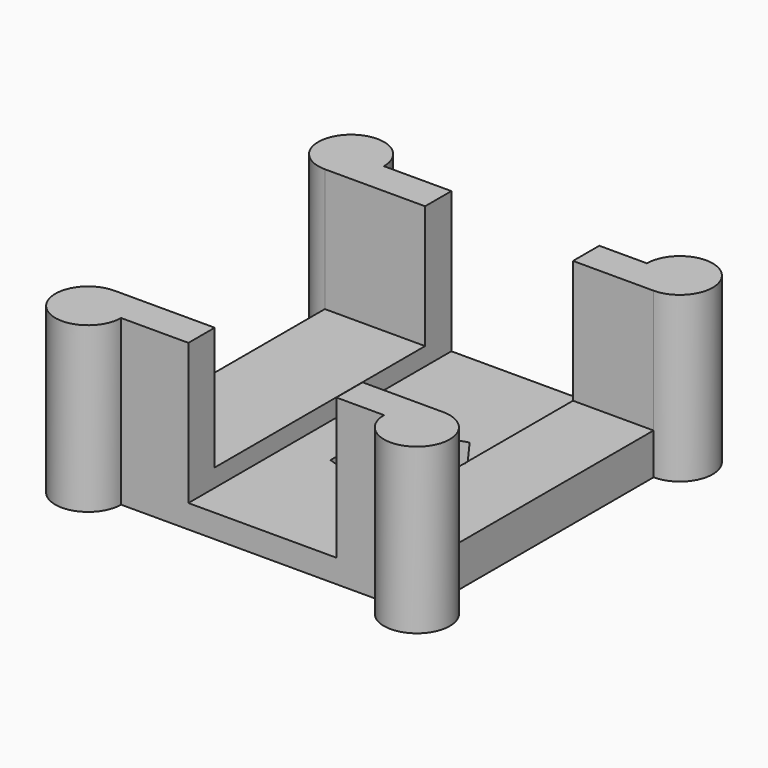
from build123d import *

# Parameters (mm, degrees)
F0_W     = 100
F0_H     = 100
F1_DEPTH = 50
F3_DEPTH = 100
F4_R     = 10
F5_DEPTH = 50
F7_DEPTH = 25
F8_W     = 80
F8_H     = 37.447
F9_DEPTH = 150


with BuildPart() as f1:
    # F0 (on Top) → F1 (new body)
    with BuildSketch(Plane.XY):
        with Locations((-7.640187, 1.520901)):
            Rectangle(F0_W, F0_H)
    extrude(amount=F1_DEPTH)

    # F2 (on face) → F3 (cut)
    with BuildSketch(Plane.XZ.offset(48.479099)):
        Polygon((0, 52.099957), (-27.144263, 52.099957), (-27.144263, 7.099957), (17.855737, 7.099957), (17.855737, 52.099957), align=None)
    extrude(amount=-F3_DEPTH, mode=Mode.SUBTRACT)

    # F4 (on face) → F5 (join)
    with BuildSketch(Plane(origin=(0, 0, 0), x_dir=(1, 0, 0), z_dir=(0, 0, -1))):
        with Locations((-57.640187, -51.520901)):
            Circle(F4_R)
        with Locations((-57.640187, 48.479099)):
            Circle(F4_R)
        with Locations((42.359813, 48.479099)):
            Circle(F4_R)
        with Locations((42.359813, -51.520901)):
            Circle(F4_R)
    extrude(amount=-F5_DEPTH)

    # F6 (on face) → F7 (cut)
    with BuildSketch(Plane(origin=(0, 0, 0), x_dir=(1, 0, 0), z_dir=(0, 0, -1))):
        Polygon((-14.585404, 10.162264), (-14.585404, -11.031568), (5.571128, -17.580822), (18.02855, -0.434652), (5.571128, 16.711519), align=None)
    extrude(amount=-F7_DEPTH, mode=Mode.SUBTRACT)

    # F8 (on face) → F9 (cut)
    with BuildSketch(Plane(origin=(-57.640187, 0, 0), x_dir=(0, -1, 0), z_dir=(-1, 0, 0))):
        with Locations((-1.520901, 31.2765)):
            Rectangle(F8_W, F8_H)
    extrude(amount=-F9_DEPTH, mode=Mode.SUBTRACT)


solid = f1.part
